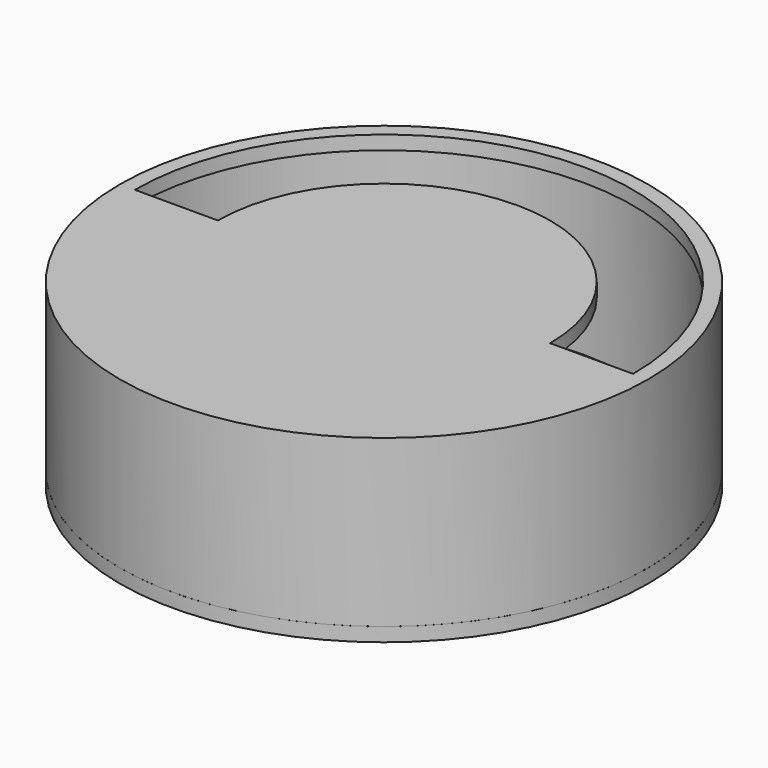
from build123d import *

# Parameters (mm, degrees)
F0_R      = 95.443
F1_DEPTH  = 60
F3_R      = 90.443
F4_DEPTH  = 147
F5_R      = 95.443
F6_DEPTH  = 5
F7_R      = 95.458283
F8_DEPTH  = 5
F11_DEPTH = 25


with BuildPart() as f1:
    # F0 (on Top) → F1 (new body)
    with BuildSketch(Plane.XY):
        Circle(F0_R)
    extrude(amount=F1_DEPTH)

    # F3 (on offset) → F4 (cut)
    with BuildSketch(Plane.XY.offset(60)):
        Circle(F3_R)
    extrude(amount=-F4_DEPTH, mode=Mode.SUBTRACT)

    # F5 (on offset) → F6 (join)
    with BuildSketch(Plane.XY.offset(60)):
        Circle(F5_R)
    extrude(amount=F6_DEPTH)

    # F7 (on Top) → F8 (join)
    with BuildSketch(Plane.XY):
        Circle(F7_R)
    extrude(amount=F8_DEPTH)

    # F10 (on offset) → F11 (cut)
    with BuildSketch(Plane.XY.offset(65)):
        with BuildLine():
            ThreePointArc((90.046942, 0), (0, 90.046942), (-90.046942, 0))
            Line((-90.046942, 0), (-60.046942, 0))
            ThreePointArc((-60.046942, 0), (0, 60.046942), (60.046942, 0))
            Line((60.046942, 0), (90.046942, 0))
        make_face()
    extrude(amount=-F11_DEPTH, mode=Mode.SUBTRACT)


solid = f1.part
